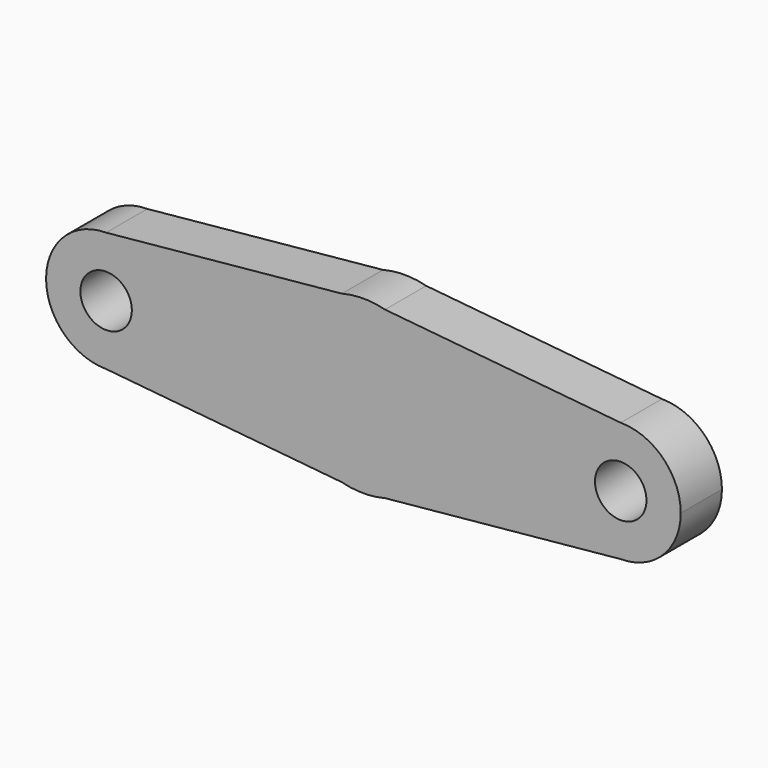
from build123d import *

# Parameters (mm, degrees)
F1_DEPTH = 7.62


with BuildPart() as f1:
    # F0 (on Front) → F1 (new body)
    with BuildSketch(Plane.XZ):
        with BuildLine():
            ThreePointArc((-12.7, 0), (-10.0479153388, 7.7672000968), (-3.199307505, 12.2904203138))
            Line((-3.199307505, 12.2904203138), (-38.1, 8.89))
            ThreePointArc((-38.1, 8.89), (-31.8138207153, 6.2861792847), (-29.21, 0))
            Line((-29.21, 0), (-12.7, 0))
        make_face()
        with BuildLine():
            Line((-38.1, -8.89), (-3.199307505, -12.2904203138))
            ThreePointArc((-3.199307505, -12.2904203138), (-10.0479153388, -7.7672000968), (-12.7, 0))
            Line((-12.7, 0), (-29.21, 0))
            ThreePointArc((-29.21, 0), (-31.8138207153, -6.2861792847), (-38.1, -8.89))
        make_face()
        with BuildLine():
            ThreePointArc((3.199307505, 12.2904203138), (10.0479153388, 7.7672000968), (12.7, 0))
            ThreePointArc((12.7, 0), (10.0479153388, -7.7672000968), (3.199307505, -12.2904203138))
            Line((3.199307505, -12.2904203138), (38.1, -8.89))
            ThreePointArc((38.1, -8.89), (29.21, 0), (38.1, 8.89))
            Line((38.1, 8.89), (3.199307505, 12.2904203138))
        make_face()
        with BuildLine():
            Line((-38.1, 3.81), (-38.1, 8.89))
            ThreePointArc((-38.1, 8.89), (-46.99, 0), (-38.1, -8.89))
            ThreePointArc((-38.1, -8.89), (-31.8138207153, -6.2861792847), (-29.21, 0))
            Line((-29.21, 0), (-34.29, 0))
            ThreePointArc((-34.29, 0), (-40.7940768363, -2.6940768363), (-38.1, 3.81))
        make_face()
        with BuildLine():
            ThreePointArc((-29.21, 0), (-31.8138207153, 6.2861792847), (-38.1, 8.89))
            Line((-38.1, 8.89), (-38.1, 3.81))
            ThreePointArc((-38.1, 3.81), (-35.4059231637, 2.6940768363), (-34.29, 0))
            Line((-34.29, 0), (-29.21, 0))
        make_face()
        with BuildLine():
            ThreePointArc((3.199307505, -12.2904203138), (10.0479153388, -7.7672000968), (12.7, 0))
            ThreePointArc((12.7, 0), (10.0479153388, 7.7672000968), (3.199307505, 12.2904203138))
            ThreePointArc((3.199307505, 12.2904203138), (0, 12.7), (-3.199307505, 12.2904203138))
            ThreePointArc((-3.199307505, 12.2904203138), (-10.0479153388, 7.7672000968), (-12.7, 0))
            ThreePointArc((-12.7, 0), (-10.0479153388, -7.7672000968), (-3.199307505, -12.2904203138))
            ThreePointArc((-3.199307505, -12.2904203138), (0, -12.7), (3.199307505, -12.2904203138))
        make_face()
        with BuildLine():
            ThreePointArc((46.99, 0), (44.3861792847, 6.2861792847), (38.1, 8.89))
            ThreePointArc((38.1, 8.89), (29.21, 0), (38.1, -8.89))
            ThreePointArc((38.1, -8.89), (44.3861792847, -6.2861792847), (46.99, 0))
        make_face()
        with BuildLine():
            ThreePointArc((41.91, 0), (35.4059231637, -2.6940768363), (38.1, 3.81))
            ThreePointArc((38.1, 3.81), (40.7940768363, 2.6940768363), (41.91, 0))
        make_face(mode=Mode.SUBTRACT)
    extrude(amount=F1_DEPTH)


solid = f1.part
